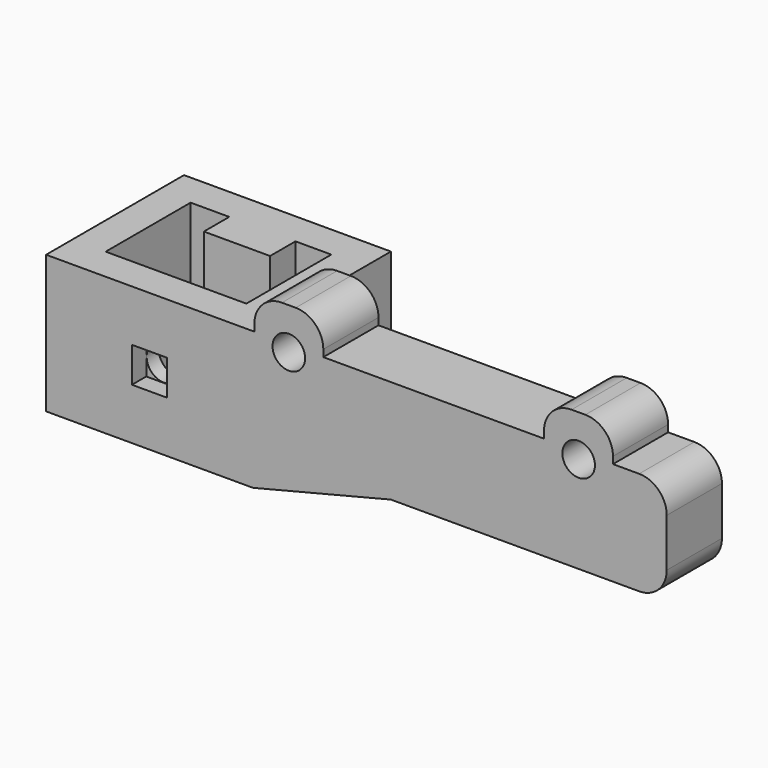
from build123d import *

# Parameters (mm, degrees)
F0_W      = 38.1
F0_H      = 31.75
F1_DEPTH  = 12.7
F2_R      = 3.175
F3_DEPTH  = 31.751
F4_W      = 6.48
F4_H      = 6.48
F5_DEPTH  = 3.302
F6_W      = 76.2
F6_H      = 12.7
F7_DEPTH  = 19.05
F9_DEPTH  = 6.35
F10_W     = 12.7
F10_H     = 12.7
F11_DEPTH = 6.35
F12_R     = 5.08
F13_R     = 3
F14_DEPTH = 31.751
F15_R     = 3
F16_DEPTH = 5.5
F17_R     = 5.08


with BuildPart() as f1:
    # F0 (on Top) → F1 (new body, symmetric)
    with BuildSketch(Plane.XY):
        Rectangle(F0_W, F0_H)
        Polygon((12.954, 9.779), (12.954, -9.779), (-12.954, -9.779), (-12.954, 9.779), (-5.842, 9.779), (-5.842, 3.937), (6.35, 3.937), (6.35, 9.779), align=None, mode=Mode.SUBTRACT)
    extrude(amount=F1_DEPTH, both=True)

    # F2 (on face) → F3 (cut, through all)
    with BuildSketch(Plane.XZ.offset(15.875)):
        Circle(F2_R)
    extrude(amount=-F3_DEPTH, mode=Mode.SUBTRACT)

    # F4 (on face) → F5 (cut)
    with BuildSketch(Plane.XZ.offset(15.875)):
        Rectangle(F4_W, F4_H)
    extrude(amount=-F5_DEPTH, mode=Mode.SUBTRACT)

    # F6 (on face) → F7 (join)
    with BuildSketch(Plane.XY.offset(12.7)):
        with Locations((57.15, -9.525)):
            Rectangle(F6_W, F6_H)
    extrude(amount=-F7_DEPTH)

    # F8 (on face) → F9 (join)
    with BuildSketch(Plane.XZ.offset(15.875)):
        Polygon((19.05, -6.35), (19.05, -12.7), (44.45, -6.35), align=None)
    extrude(amount=-F9_DEPTH)

    # F10 (on face) → F11 (join)
    with BuildSketch(Plane.XY.offset(12.7)):
        with Locations((25.654, -9.525)):
            Rectangle(F10_W, F10_H)
        with Locations((78.994, -9.525)):
            Rectangle(F10_W, F10_H)
    extrude(amount=F11_DEPTH)

    # F12
    f12_edges = [f1.edges().sort_by_distance(p)[0] for p in [
        (19.304, -9.525, 19.05),
        (32.004, -9.525, 19.05),
        (72.644, -9.525, 19.05),
        (85.344, -9.525, 19.05),
    ]]
    fillet(f12_edges, radius=F12_R)

    # F13 (on face) → F14 (cut, through all)
    with BuildSketch(Plane.XZ.offset(15.875)):
        with Locations((25.653916178, 11.4300000005)):
            Circle(F13_R)
        with Locations((79.0242652024, 11.4300601041)):
            Circle(F13_R)
    extrude(amount=-F14_DEPTH, mode=Mode.SUBTRACT)

    # F15 (on face) → F16 (cut)
    with BuildSketch(Plane(origin=(0, -3.175, 0), x_dir=(-1, 0, 0), z_dir=(0, 1, 0))):
        Polygon((-84.0242652024, 8.5433087581), (-79.0242652024, 5.6565574122), (-74.0242652024, 8.5433087581), (-74.0242652024, 14.31681145), (-79.0242652024, 17.203562796), (-84.0242652024, 14.31681145), align=None)
        with Locations((-79.0242652024, 11.4300601041)):
            Circle(F15_R, mode=Mode.SUBTRACT)
        Polygon((-30.653916178, 8.5432486545), (-25.653916178, 5.6564973086), (-20.653916178, 8.5432486545), (-20.653916178, 14.3167513464), (-25.653916178, 17.2035026924), (-30.653916178, 14.3167513464), align=None)
        with Locations((-25.653916178, 11.4300000005)):
            Circle(F15_R, mode=Mode.SUBTRACT)
    extrude(amount=-F16_DEPTH, mode=Mode.SUBTRACT)

    # F17
    f17_edges = [f1.edges().sort_by_distance(p)[0] for p in [
        (95.25, -9.525, 12.7),
        (95.25, -9.525, -6.35),
    ]]
    fillet(f17_edges, radius=F17_R)


solid = f1.part
